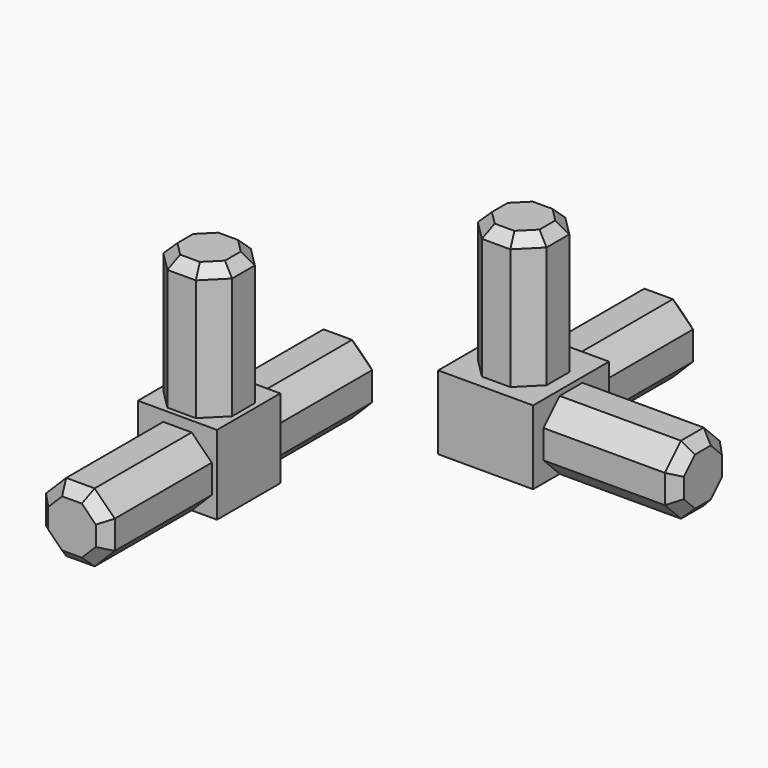
from build123d import *

# Parameters (mm, degrees)
F0_W      = 18
F0_H      = 18
F1_DEPTH  = 14
F5_DEPTH  = 25
F6_DEPTH  = 25
F7_DEPTH  = 25
F8_SIZE   = 2
F9_W      = 15
F9_H      = 15
F10_DEPTH = 15
F14_DEPTH = 25
F15_DEPTH = 25
F16_DEPTH = 25
F17_SIZE  = 2


with BuildPart() as f1:
    # F0 (on Top) → F1 (new body)
    with BuildSketch(Plane.XY):
        with Locations((9, 9)):
            Rectangle(F0_W, F0_H)
    extrude(amount=F1_DEPTH)

    # F2 (on face) → F5 (join)
    with BuildSketch(Plane.YZ.offset(18)):
        Polygon((6.302082, 0), (11.697918, 0), (15.513351, 3.815433), (15.513351, 9.211269), (11.697918, 13.026701), (6.302082, 13.026701), (2.486649, 9.211269), (2.486649, 3.815433), align=None)
    extrude(amount=F5_DEPTH)

    # F3 (on face) → F6 (join)
    with BuildSketch(Plane(origin=(0, 18, 0), x_dir=(-1, 0, 0), z_dir=(0, 1, 0))):
        Polygon((-11.697918, 0), (-6.302082, 0), (-2.486649, 3.815433), (-2.486649, 9.211269), (-6.302082, 13.026701), (-11.697918, 13.026701), (-15.513351, 9.211269), (-15.513351, 3.815433), align=None)
    extrude(amount=F6_DEPTH)

    # F4 (on face) → F7 (join)
    with BuildSketch(Plane.XY.offset(14)):
        Polygon((11.697918, 15.513351), (6.302082, 15.513351), (2.486649, 11.697918), (2.486649, 6.302082), (6.302082, 2.486649), (11.697918, 2.486649), (15.513351, 6.302082), (15.513351, 11.697918), align=None)
    extrude(amount=F7_DEPTH)

    # F8
    f8_edges = [f1.edges().sort_by_distance(p)[0] for p in [
        (9, 15.513351, 39),
        (4.394366, 13.605634, 39),
        (2.486649, 9, 39),
        (4.394366, 4.394366, 39),
        (9, 2.486649, 39),
        (13.605634, 4.394366, 39),
        (15.513351, 9, 39),
        (13.605634, 13.605634, 39),
        (43, 4.394366, 1.907716),
        (43, 9, 0),
        (43, 13.605634, 1.907716),
        (43, 15.513351, 6.513351),
        (43, 13.605634, 11.118985),
        (43, 9, 13.026701),
        (43, 4.394366, 11.118985),
        (43, 2.486649, 6.513351),
        (13.605634, 43, 1.907716),
        (9, 43, 0),
        (4.394366, 43, 1.907716),
        (2.486649, 43, 6.513351),
        (4.394366, 43, 11.118985),
        (9, 43, 13.026701),
        (13.605634, 43, 11.118985),
        (15.513351, 43, 6.513351),
    ]]
    chamfer(f8_edges, length=F8_SIZE)


with BuildPart() as f10:
    # F9 (on Top) → F10 (new body)
    with BuildSketch(Plane.XY):
        with Locations((-19.946877, -29.370772)):
            Rectangle(F9_W, F9_H)
    extrude(amount=F10_DEPTH)

    # F11 (on face) → F14 (join)
    with BuildSketch(Plane.XZ.offset(36.870772)):
        Polygon((-22.644795, 0), (-17.248959, 0), (-13.433526, 3.815433), (-13.433526, 9.211269), (-17.248959, 13.026701), (-22.644795, 13.026701), (-26.460227, 9.211269), (-26.460227, 3.815433), align=None)
    extrude(amount=F14_DEPTH)

    # F12 (on face) → F15 (join)
    with BuildSketch(Plane(origin=(0, -21.870772, 0), x_dir=(-1, 0, 0), z_dir=(0, 1, 0))):
        Polygon((17.248959, 0), (22.644795, 0), (26.460227, 3.815433), (26.460227, 9.211269), (22.644795, 13.026701), (17.248959, 13.026701), (13.433526, 9.211269), (13.433526, 3.815433), align=None)
    extrude(amount=F15_DEPTH)

    # F13 (on face) → F16 (join)
    with BuildSketch(Plane.XY.offset(15)):
        Polygon((-22.644795, -35.884123), (-17.248959, -35.884123), (-13.433526, -32.06869), (-13.433526, -26.672854), (-17.248959, -22.857421), (-22.644795, -22.857421), (-26.460227, -26.672854), (-26.460227, -32.06869), align=None)
    extrude(amount=F16_DEPTH)

    # F17
    f17_edges = [f10.edges().sort_by_distance(p)[0] for p in [
        (-24.552511, -61.870772, 1.907716),
        (-19.946877, -61.870772, 0),
        (-15.341242, -61.870772, 1.907716),
        (-13.433526, -61.870772, 6.513351),
        (-15.341242, -61.870772, 11.118985),
        (-19.946877, -61.870772, 13.026701),
        (-24.552511, -61.870772, 11.118985),
        (-26.460227, -61.870772, 6.513351),
        (-24.552511, -33.976406, 40),
        (-19.946877, -35.884123, 40),
        (-15.341242, -33.976406, 40),
        (-13.433526, -29.370772, 40),
        (-15.341242, -24.765137, 40),
        (-19.946877, -22.857421, 40),
        (-24.552511, -24.765137, 40),
        (-26.460227, -29.370772, 40),
        (-13.433526, 3.129228, 6.513351),
        (-15.341242, 3.129228, 1.907716),
        (-19.946877, 3.129228, 0),
        (-24.552511, 3.129228, 1.907716),
        (-26.460227, 3.129228, 6.513351),
        (-24.552511, 3.129228, 11.118985),
        (-19.946877, 3.129228, 13.026701),
        (-15.341242, 3.129228, 11.118985),
    ]]
    chamfer(f17_edges, length=F17_SIZE)


solid = Compound([f1.part, f10.part])
